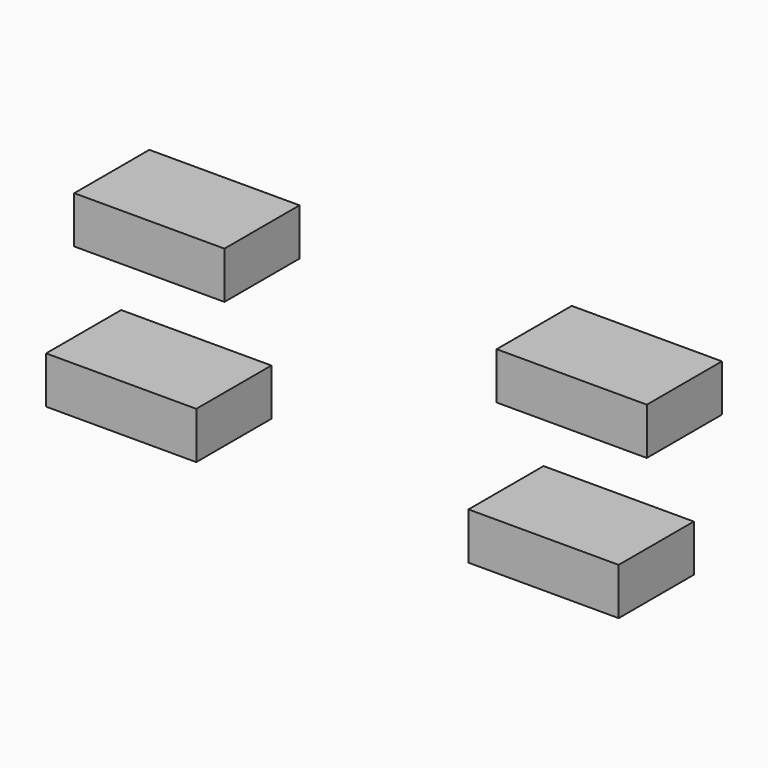
from build123d import *

# Parameters (mm, degrees)
BOX045_W     = 16
BOX045_H     = 10
BOX045_DEPTH = 5
BOX043_W     = 16
BOX043_H     = 10
BOX043_DEPTH = 5
BOX044_W     = 16
BOX044_H     = 10
BOX044_DEPTH = 5
BOX034_W     = 16
BOX034_H     = 10
BOX034_DEPTH = 5


with BuildPart() as obj1:
    # Box045 → Box045 (new body)
    with BuildSketch(Plane(origin=(38.5, -18, 20), x_dir=(1, 0, 0), z_dir=(0, 0, 1))):
        with Locations((8, 5)):
            Rectangle(BOX045_W, BOX045_H)
    extrude(amount=BOX045_DEPTH)


with BuildPart() as obj2:
    # Box043 → Box043 (new body)
    with BuildSketch(Plane(origin=(35.5, -18, 4), x_dir=(1, 0, 0), z_dir=(0, 0, 1))):
        with Locations((8, 5)):
            Rectangle(BOX043_W, BOX043_H)
    extrude(amount=BOX043_DEPTH)


with BuildPart() as obj3:
    # Box044 → Box044 (new body)
    with BuildSketch(Plane(origin=(-6.5, -18, 20), x_dir=(1, 0, 0), z_dir=(0, 0, 1))):
        with Locations((8, 5)):
            Rectangle(BOX044_W, BOX044_H)
    extrude(amount=BOX044_DEPTH)


with BuildPart() as obj4:
    # Box034 → Box034 (new body)
    with BuildSketch(Plane(origin=(-9.5, -18, 4), x_dir=(1, 0, 0), z_dir=(0, 0, 1))):
        with Locations((8, 5)):
            Rectangle(BOX034_W, BOX034_H)
    extrude(amount=BOX034_DEPTH)

    # Fusion026017: union obj1, obj2, obj3
    add(obj1.part)
    add(obj2.part)
    add(obj3.part)


with BuildPart() as obj4_1:
    # Fusion026017 placement: moved
    add(obj4.part.moved(Location((0, 26, 0))))


solid = obj4_1.part
